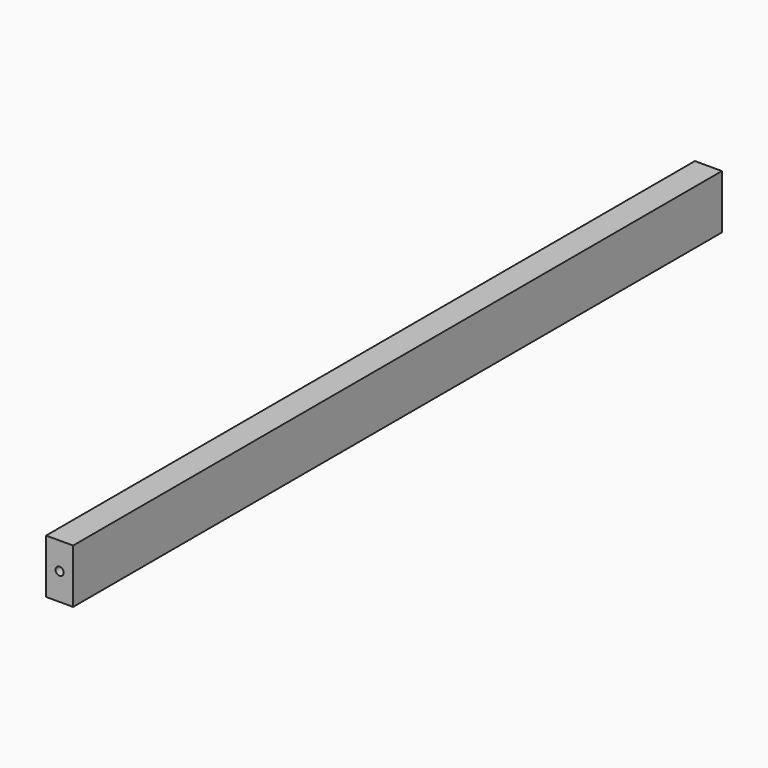
from build123d import *

# Parameters (mm, degrees)
F0_W     = 20
F0_H     = 40
F1_DEPTH = 600
F2_R     = 3
F3_DEPTH = 25
F4_R     = 3
F5_DEPTH = 25


with BuildPart() as f1:
    # F0 (on Front) → F1 (new body)
    with BuildSketch(Plane.XZ):
        with Locations((-10, 20)):
            Rectangle(F0_W, F0_H)
    extrude(amount=F1_DEPTH)

    # F2 (on face) → F3 (cut)
    with BuildSketch(Plane(origin=(0, 0, 0), x_dir=(-1, 0, 0), z_dir=(0, 1, 0))):
        with Locations((10, 20)):
            Circle(F2_R)
    extrude(amount=-F3_DEPTH, mode=Mode.SUBTRACT)

    # F4 (on face) → F5 (cut)
    with BuildSketch(Plane.XZ.offset(600)):
        with Locations((-10, 20)):
            Circle(F4_R)
    extrude(amount=-F5_DEPTH, mode=Mode.SUBTRACT)


solid = f1.part
